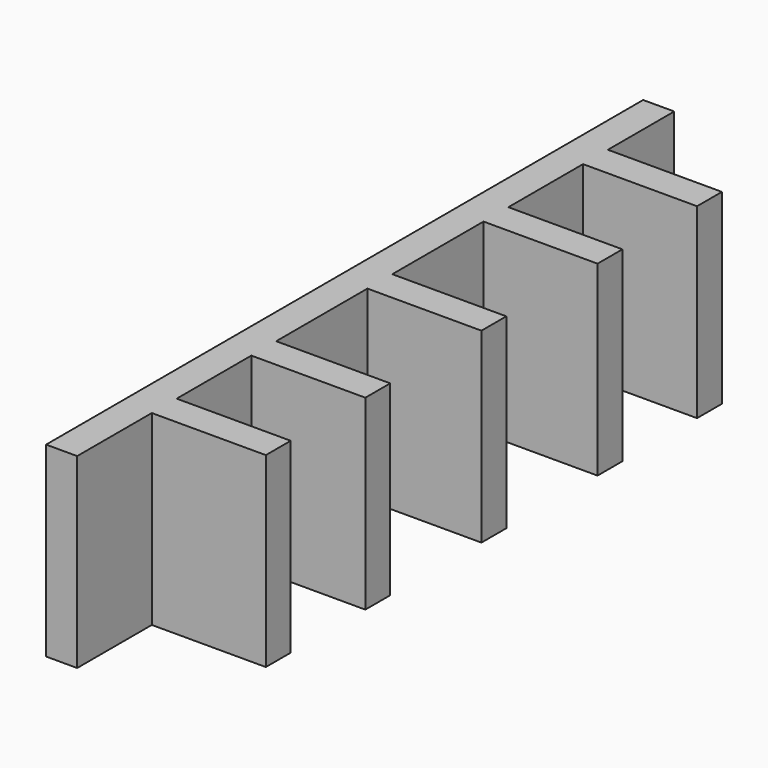
from build123d import *

# Parameters (mm, degrees)
F1_DEPTH = 9


with BuildPart() as f1:
    # F0 (on Top) → F1 (new body)
    with BuildSketch(Plane.XY):
        Polygon((1.5, 0), (0, 0), (0, -36), (1.5, -36), (1.5, -31.5), (7, -31.5), (7, -30), (1.5, -30), (1.5, -25.5), (7, -25.5), (7, -24), (1.5, -24), (1.5, -18.5), (7, -18.5), (7, -17), (1.5, -17), (1.5, -11.5), (7, -11.5), (7, -10), (1.5, -10), (1.5, -5.5), (7, -5.5), (7, -4), (1.5, -4), align=None)
    extrude(amount=F1_DEPTH)


solid = f1.part
